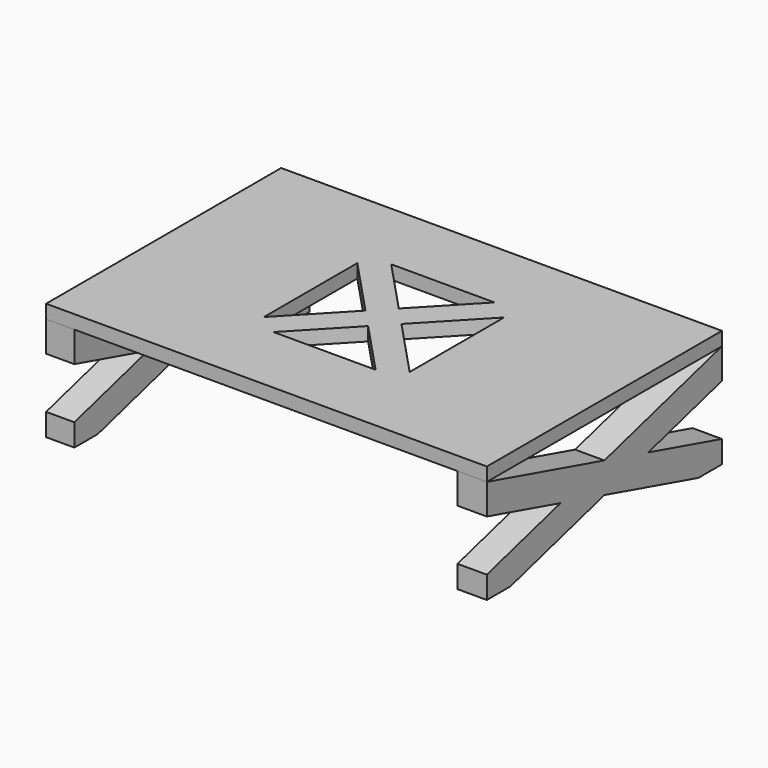
from build123d import *

# Parameters (mm, degrees)
F0_W     = 1500
F0_H     = 400
F1_DEPTH = 1000
F3_DEPTH = 1500.001
F5_W     = 1303.9535284042
F5_H     = 357.2461120359
F6_DEPTH = 1000.001
F8_DEPTH = 400.001
F9_SCALE = 0.1


with BuildPart() as f1:
    # F0 (on Front) → F1 (new body)
    with BuildSketch(Plane.XZ):
        with Locations((-18.3606576174, -145.8811463788)):
            Rectangle(F0_W, F0_H)
    extrude(amount=F1_DEPTH)

    # F2 (on face) → F3 (cut, through all)
    with BuildSketch(Plane.YZ.offset(731.6393423826)):
        Polygon((-1000, 7.905196356), (-500, -130.9836925329), (0, 7.905196356), align=None)
        Polygon((-500, -234.7700352677), (-900, -345.8811463788), (-100, -345.8811463788), align=None)
        Polygon((0, -95.8811463788), (-313.1845830773, -182.8768639003), (0, -269.8725814218), align=None)
        Polygon((-1000, -269.8725814218), (-686.8154169227, -182.8768639003), (-1000, -95.8811463788), align=None)
    extrude(amount=-F3_DEPTH, mode=Mode.SUBTRACT)

    # F5 (on face) → F6 (cut, through all)
    with BuildSketch(Plane(origin=(0, 0, 0), x_dir=(-1, 0, 0), z_dir=(0, 1, 0))):
        with Locations((20.1920866966, -170.717859662)):
            Rectangle(F5_W, F5_H)
    extrude(amount=-F6_DEPTH, mode=Mode.SUBTRACT)

    # F7 (on face) → F8 (cut, through all)
    with BuildSketch(Plane.XY.offset(54.1188536212)):
        Polygon((231.6393423826, -703.3171292919), (231.6393423826, -301.4968633652), (41.9458825629, -501.2107406615), align=None)
        Polygon((153.0627522819, -750), (-19.6146414143, -566.0231540339), (-194.3606576174, -750), align=None)
        Polygon((-268.3606576174, -698.5031366348), (-80.7052512791, -500.9349714958), (-268.3606576174, -301), align=None)
        Polygon((-19.144727302, -436.1225581235), (157.6393423826, -250), (-193.8360482454, -250), align=None)
    extrude(amount=-F8_DEPTH, mode=Mode.SUBTRACT)


with BuildPart() as f1_1:
    # F9: moved
    add(f1.part.scale(F9_SCALE))


solid = f1_1.part
